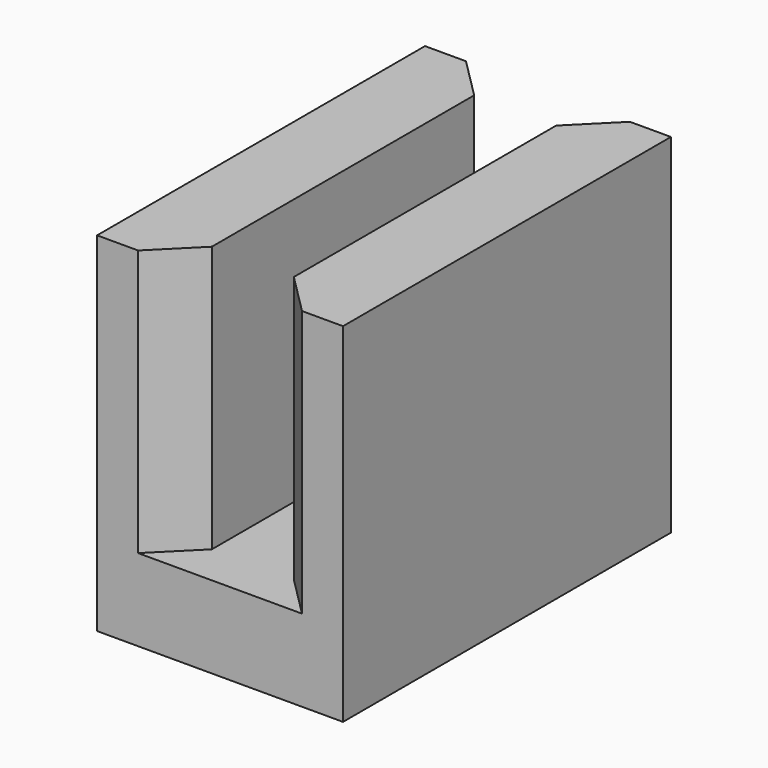
from build123d import *

# Parameters (mm, degrees)
SKETCH_W     = 6
SKETCH_H     = 10
PAD_DEPTH    = 2
SKETCH001_W  = 2
SKETCH001_H  = 10
PAD001_DEPTH = 6.5
CHAMFER_SIZE = 1


with BuildPart() as part:
    # Sketch → Pad (new body)
    with BuildSketch(Plane.XY):
        Rectangle(SKETCH_W, SKETCH_H)
    extrude(amount=PAD_DEPTH)

    # Sketch001 (on Face6 of Pad) → Pad001 (join)
    with BuildSketch(Plane.XY.offset(2)):
        with Locations((-2, 0)):
            Rectangle(SKETCH001_W, SKETCH001_H)
        with Locations((2, 0)):
            Rectangle(SKETCH001_W, SKETCH001_H)
    extrude(amount=PAD001_DEPTH)

    # Chamfer
    chamfer_edges = [part.edges().sort_by_distance(p)[0] for p in [
        (-1, -5, 5.25),
        (1, -5, 5.25),
        (-1, 5, 5.25),
        (1, 5, 5.25),
    ]]
    chamfer(chamfer_edges, length=CHAMFER_SIZE)


solid = part.part
